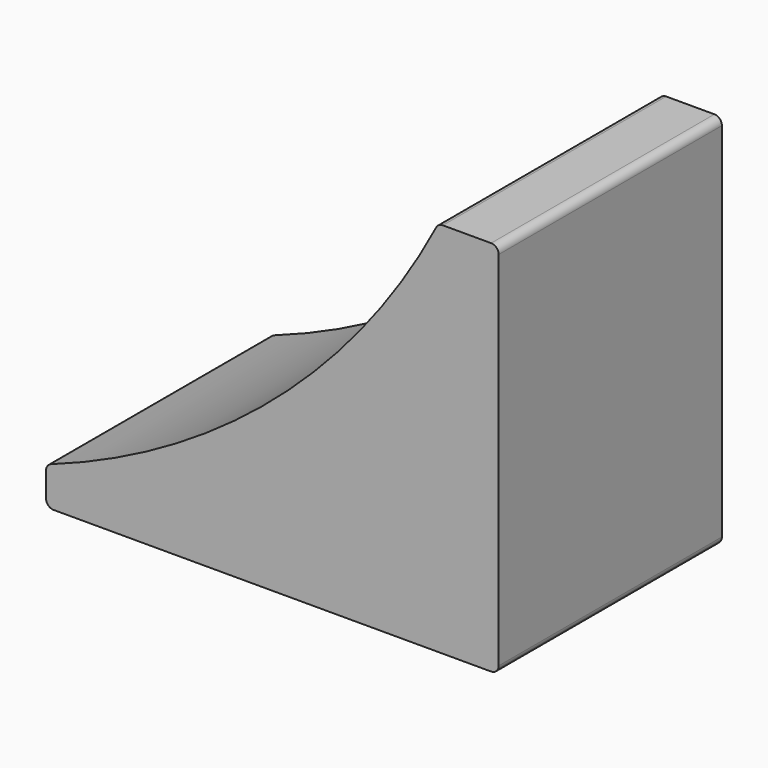
from build123d import *

# Parameters (mm, degrees)
F1_DEPTH = 185


with BuildPart() as f1:
    # F0 (on Front) → F1 (new body)
    with BuildSketch(Plane.XZ):
        with BuildLine():
            ThreePointArc((-150, -152.142857), (-148.535534, -155.678391), (-145, -157.142857))
            Line((-145, -157.142857), (145, -157.142857))
            ThreePointArc((145, -157.142857), (148.535534, -155.678391), (150, -152.142857))
            Line((150, -152.142857), (150, 87.857143))
            ThreePointArc((150, 87.857143), (148.535534, 91.392677), (145, 92.857143))
            Line((145, 92.857143), (113.030181, 92.857143))
            ThreePointArc((113.030181, 92.857143), (110.445678, 92.13737), (108.605277, 90.18528))
            ThreePointArc((108.605277, 90.18528), (1.80531, -44.449585), (-146.673868, -130.975382))
            ThreePointArc((-146.673868, -130.975382), (-149.084687, -132.803244), (-150, -135.686875))
            Line((-150, -135.686875), (-150, -152.142857))
        make_face()
    extrude(amount=F1_DEPTH)


solid = f1.part
